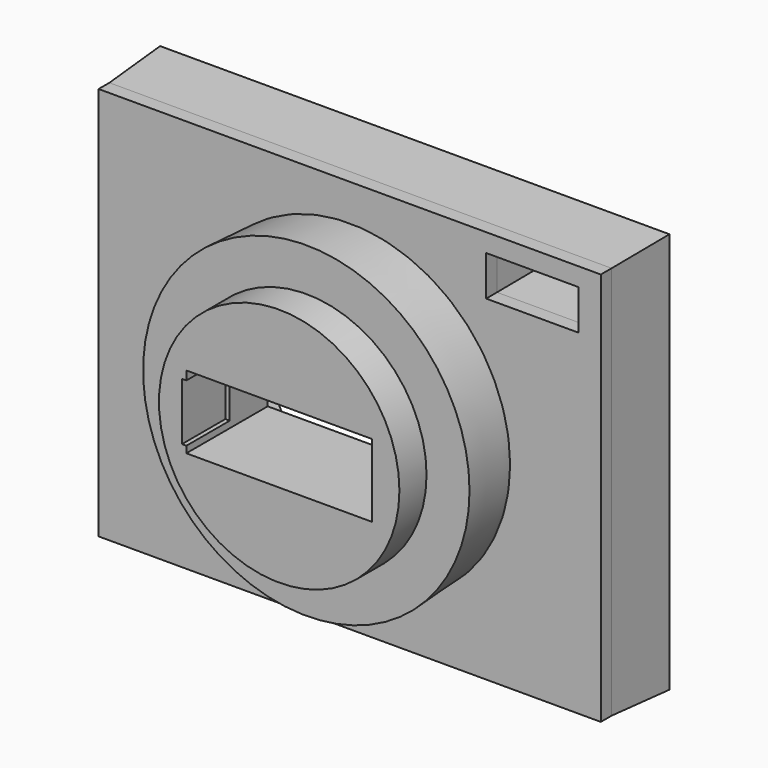
from build123d import *

# Parameters (mm, degrees)
F0_W          = 74.0917101502
F0_H          = 58.1057071686
F0_R          = 23.5537470602
F0_W_2        = 13.6184170842
F0_H_2        = 5.9210546315
F1_DEPTH      = 10
F1_TAPER      = -3
F1_DEPTH_BACK = 2
F0_R_2        = 17.7374506233
F2_DEPTH      = 10
F2_TAPER      = -3
F0_W_3        = 27.3913051933
F0_H_3        = 10.7608698308
F3_DEPTH      = 15
F4_W          = 26.7391316593
F4_H          = 8.4782613267
F4_W_2        = 0.6521801697
F5_DEPTH      = 8


with BuildPart() as f1:
    # F0 (on Front) → F1 (new body, two sides)
    with BuildSketch(Plane.XZ) as f1_sk:
        Rectangle(F0_W, F0_H)
        Circle(F0_R, mode=Mode.SUBTRACT)
        with Locations((26.940792799, 23.38815853)):
            Rectangle(F0_W_2, F0_H_2, mode=Mode.SUBTRACT)
    extrude(amount=-F1_DEPTH, taper=F1_TAPER)
    extrude(f1_sk.sketch, amount=F1_DEPTH_BACK)


with BuildPart() as f2:
    # F0 (on Front) → F2 (new body)
    with BuildSketch(Plane.XZ):
        Circle(F0_R)
        Circle(F0_R_2, mode=Mode.SUBTRACT)
    extrude(amount=F2_DEPTH, taper=F2_TAPER)

    # F0 (on Front) → F3 (join)
    with BuildSketch(Plane.XZ):
        Circle(F0_R_2)
        Rectangle(F0_W_3, F0_H_3, mode=Mode.SUBTRACT)
    extrude(amount=F3_DEPTH)

    # F4 (on face) → F5 (cut)
    with BuildSketch(Plane.XZ.offset(15)):
        with Locations((-0.326086767, -0.1630434854)):
            Rectangle(F4_W, F4_H)
        with Locations((-14.0217426815, -0.1630434854)):
            Rectangle(F4_W_2, F4_H)
    extrude(amount=-F5_DEPTH, mode=Mode.SUBTRACT)


solid = Compound([f1.part, f2.part])
